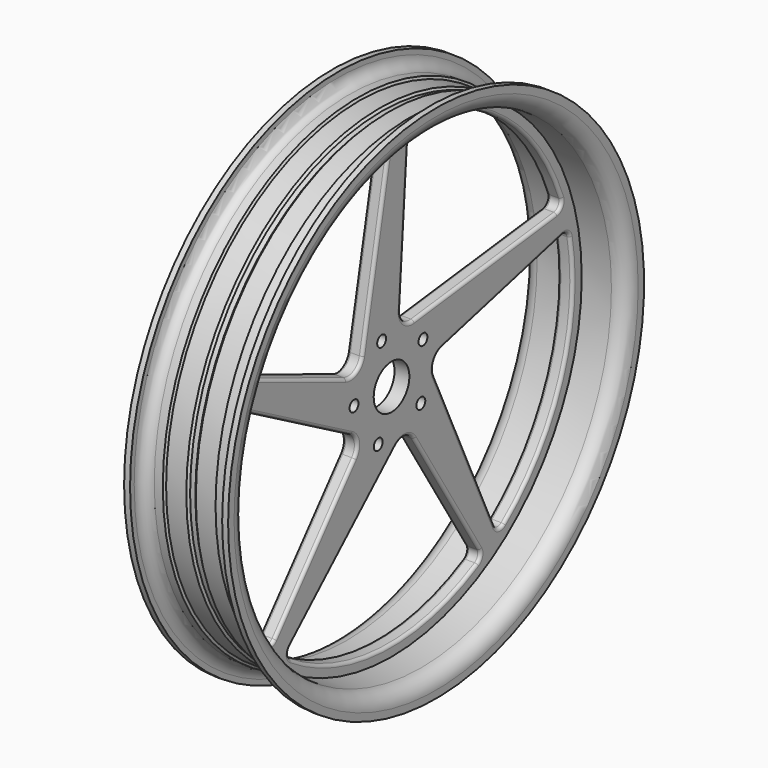
from build123d import *

# Parameters (mm, degrees)
F2_R     = 19.05
F3_DEPTH = 50.801
F4_R     = 2.54
F5_R     = 4.7625
F6_DEPTH = 50.801


with BuildPart() as f1:
    # F0 (on Top) → F1 (revolve)
    with BuildSketch(Plane.XY):
        with BuildLine():
            Line((6.35, 0), (-6.35, 0))
            Line((-6.35, 0), (-6.35, -203.2))
            Line((-6.35, -203.2), (-31.75, -203.2))
            ThreePointArc((-31.75, -203.2), (-40.730256, -206.919744), (-44.45, -215.9))
            Line((-44.45, -215.9), (-44.45, -222.25))
            Line((-44.45, -222.25), (-39.37, -222.25))
            Line((-39.37, -222.25), (-39.37, -217.805))
            ThreePointArc((-39.37, -217.805), (-36.580192, -211.069808), (-29.845, -208.28))
            Line((-29.845, -208.28), (-22.546498, -208.28))
            Line((-22.546498, -208.28), (-21.343328, -206.262586))
            Line((-21.343328, -206.262586), (-4.069228, -206.262586))
            Line((-4.069228, -206.262586), (-2.2374, -204.503897))
            Line((-2.2374, -204.503897), (0, -204.503897))
            Line((0, -204.503897), (2.2374, -204.503897))
            Line((2.2374, -204.503897), (4.069228, -206.262586))
            Line((4.069228, -206.262586), (21.343328, -206.262586))
            Line((21.343328, -206.262586), (22.546498, -208.28))
            Line((22.546498, -208.28), (29.845, -208.28))
            ThreePointArc((29.845, -208.28), (36.580192, -211.069808), (39.37, -217.805))
            Line((39.37, -217.805), (39.37, -222.25))
            Line((39.37, -222.25), (44.45, -222.25))
            Line((44.45, -222.25), (44.45, -215.9))
            ThreePointArc((44.45, -215.9), (40.730256, -206.919744), (31.75, -203.2))
            Line((31.75, -203.2), (6.35, -203.2))
            Line((6.35, -203.2), (6.35, 0))
        make_face()
    revolve(axis=Axis((0, 0, 0), (1, 0, 0)))

    # F2 (on face) → F3 (cut, through all)
    with BuildSketch(Plane(origin=(-6.35, 0, 0), x_dir=(0, -1, 0), z_dir=(-1, 0, 0))):
        Circle(F2_R)
        with BuildLine():
            ThreePointArc((-18.739901, 186.077107), (-21.063413, 190.561736), (-25.924776, 191.932049))
            ThreePointArc((-25.924776, 191.932049), (-120.989205, 151.233653), (-181.561216, 67.420548))
            ThreePointArc((-181.561216, 67.420548), (-181.029669, 61.903646), (-176.368047, 58.905642))
            Line((-176.368047, 58.905642), (-23.79932, 40.521656))
            ThreePointArc((-23.79932, 40.521656), (-13.531185, 43.924575), (-9.610241, 54.006273))
            Line((-9.610241, 54.006273), (-18.739901, 186.077107))
        make_face()
        with BuildLine():
            ThreePointArc((-45.89278, -10.112618), (-45.956119, 0.704518), (-54.332746, 7.548974))
            Line((-54.332746, 7.548974), (-182.760793, 39.678283))
            ThreePointArc((-182.760793, 39.678283), (-187.743934, 38.854319), (-190.549423, 34.654338))
            ThreePointArc((-190.549423, 34.654338), (-181.219472, -68.333803), (-120.226253, -151.840883))
            ThreePointArc((-120.226253, -151.840883), (-114.81511, -153.040168), (-110.523318, -149.533136))
            Line((-110.523318, -149.533136), (-45.89278, -10.112618))
        make_face()
        with BuildLine():
            ThreePointArc((-4.563978, -46.771598), (-14.871259, -43.489159), (-23.969243, -49.340751))
            Line((-23.969243, -49.340751), (-94.212481, -161.554579))
            ThreePointArc((-94.212481, -161.554579), (-94.968719, -166.548447), (-91.841244, -170.514491))
            ThreePointArc((-91.841244, -170.514491), (8.989412, -193.466266), (107.257306, -161.263375))
            ThreePointArc((107.257306, -161.263375), (110.070028, -156.487671), (108.06088, -151.322202))
            Line((108.06088, -151.322202), (-4.563978, -46.771598))
        make_face()
        with BuildLine():
            ThreePointArc((43.072086, -18.793819), (36.765176, -27.582296), (39.518939, -38.043235))
            Line((39.518939, -38.043235), (124.534278, -139.524504))
            ThreePointArc((124.534278, -139.524504), (129.050037, -141.786919), (133.788413, -140.038089))
            ThreePointArc((133.788413, -140.038089), (186.775234, -51.234925), (186.514914, 52.174636))
            ThreePointArc((186.514914, 52.174636), (182.842129, 56.325468), (177.308615, 56.010872))
            Line((177.308615, 56.010872), (43.072086, -18.793819))
        make_face()
        with BuildLine():
            ThreePointArc((31.183991, 35.156379), (37.593387, 26.442362), (48.39329, 25.828738))
            Line((48.39329, 25.828738), (171.178897, 75.323693))
            ThreePointArc((171.178897, 75.323693), (174.726028, 78.919311), (174.52703, 83.966192))
            ThreePointArc((174.52703, 83.966192), (106.444031, 161.801341), (8.01525, 193.509073))
            ThreePointArc((8.01525, 193.509073), (2.932622, 191.298725), (1.521871, 185.938825))
            Line((1.521871, 185.938825), (31.183991, 35.156379))
        make_face()
    extrude(amount=-F3_DEPTH, mode=Mode.SUBTRACT)

    # F4
    f4_edges = [f1.edges().sort_by_distance(p)[0] for p in [
        (-6.35, 100.083683, 49.713649),
        (-6.35, -16.352931, 110.547602),
        (-6.35, -110.19035, 18.608526),
        (-6.35, 59.090862, -105.447665),
        (-6.35, 78.208049, -79.822877),
        (6.35, -51.748451, -99.0469),
        (6.35, 78.208049, -79.822877),
        (6.35, 14.175071, 120.04169),
        (6.35, -109.786094, 50.576216),
        (6.35, -82.026608, -88.783869),
    ]]
    fillet(f4_edges, radius=F4_R)

    # F5 (on face) → F6 (cut, through all)
    with BuildSketch(Plane(origin=(-6.35, 0, 0), x_dir=(0, -1, 0), z_dir=(-1, 0, 0))):
        with Locations((10.547432, 38.721171)):
            Circle(F5_R)
        with Locations((-33.566687, 21.996704)):
            Circle(F5_R)
        with Locations((-31.292785, -25.126461)):
            Circle(F5_R)
        with Locations((14.226682, -37.525711)):
            Circle(F5_R)
        with Locations((40.085358, 1.934296)):
            Circle(F5_R)
    extrude(amount=-F6_DEPTH, mode=Mode.SUBTRACT)


solid = f1.part
